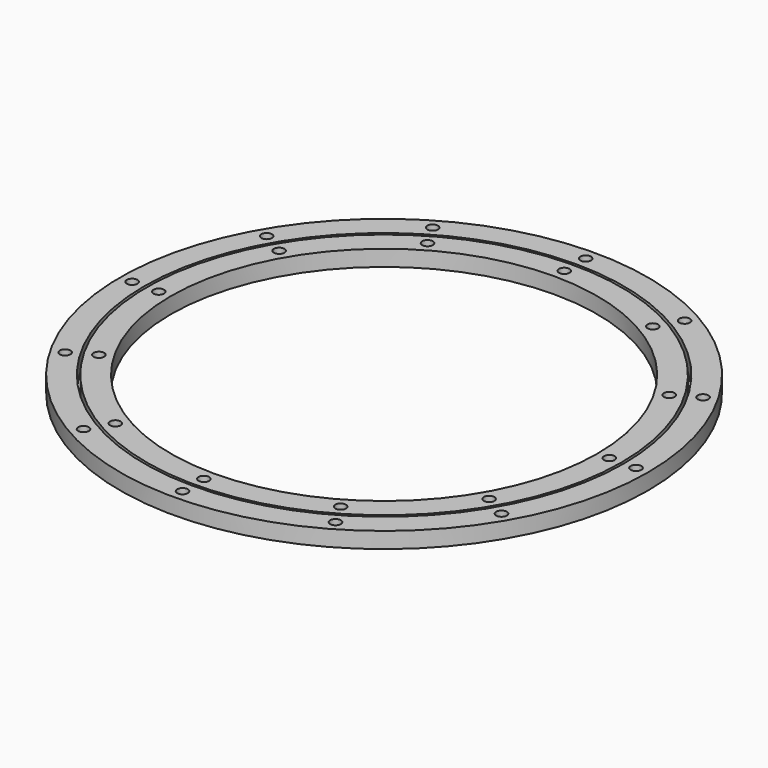
from build123d import *

# Parameters (mm, degrees)
F0_R     = 222.5
F0_R_2   = 5
F1_DEPTH = 15
F0_R_3   = 247.5


with BuildPart() as f1:
    # F0 (on Top) → F1 (new body)
    with BuildSketch(Plane.XY):
        Circle(F0_R)
        with Locations((-105.625, -182.9478665495)):
            Circle(F0_R_2, mode=Mode.SUBTRACT)
        with Locations((-182.9478665495, -105.625)):
            Circle(F0_R_2, mode=Mode.SUBTRACT)
        with Locations((0, -211.25)):
            Circle(F0_R_2, mode=Mode.SUBTRACT)
        with Locations((105.625, -182.9478665495)):
            Circle(F0_R_2, mode=Mode.SUBTRACT)
        with Locations((182.9478665495, -105.625)):
            Circle(F0_R_2, mode=Mode.SUBTRACT)
        with Locations((-211.25, 0)):
            Circle(F0_R_2, mode=Mode.SUBTRACT)
        with Locations((-182.9478665495, 105.625)):
            Circle(F0_R_2, mode=Mode.SUBTRACT)
        with Locations((-105.625, 182.9478665495)):
            Circle(F0_R_2, mode=Mode.SUBTRACT)
        with BuildLine():
            ThreePointArc((0, 200), (141.4213562373, 141.4213562373), (200, 0))
            ThreePointArc((200, 0), (-141.4213562373, -141.4213562373), (0, 200))
        make_face(mode=Mode.SUBTRACT)
        with Locations((211.25, 0)):
            Circle(F0_R_2, mode=Mode.SUBTRACT)
        with Locations((182.9478665495, 105.625)):
            Circle(F0_R_2, mode=Mode.SUBTRACT)
        with Locations((105.625, 182.9478665495)):
            Circle(F0_R_2, mode=Mode.SUBTRACT)
        with BuildLine():
            ThreePointArc((5, 211.25), (3.5355339059, 207.7144660941), (0, 206.25))
            ThreePointArc((0, 206.25), (-3.5355339059, 214.7855339059), (5, 211.25))
        make_face(mode=Mode.SUBTRACT)
    extrude(amount=F1_DEPTH)


with BuildPart() as f1b:
    # F0 (on Top) → F1, piece 2 (new body)
    with BuildSketch(Plane.XY):
        Circle(F0_R_3)
        with Locations((-118.125, -204.5985016441)):
            Circle(F0_R_2, mode=Mode.SUBTRACT)
        with Locations((-204.5985016441, -118.125)):
            Circle(F0_R_2, mode=Mode.SUBTRACT)
        with Locations((0, -236.25)):
            Circle(F0_R_2, mode=Mode.SUBTRACT)
        with Locations((118.125, -204.5985016441)):
            Circle(F0_R_2, mode=Mode.SUBTRACT)
        with Locations((204.5985016441, -118.125)):
            Circle(F0_R_2, mode=Mode.SUBTRACT)
        with Locations((-236.25, 0)):
            Circle(F0_R_2, mode=Mode.SUBTRACT)
        with Locations((-204.5985016441, 118.125)):
            Circle(F0_R_2, mode=Mode.SUBTRACT)
        with Locations((-118.125, 204.5985016441)):
            Circle(F0_R_2, mode=Mode.SUBTRACT)
        with BuildLine():
            ThreePointArc((0, 225), (159.099025767, 159.099025767), (225, 0))
            ThreePointArc((225, 0), (-159.099025767, -159.099025767), (0, 225))
        make_face(mode=Mode.SUBTRACT)
        with Locations((236.25, 0)):
            Circle(F0_R_2, mode=Mode.SUBTRACT)
        with Locations((204.5985016441, 118.125)):
            Circle(F0_R_2, mode=Mode.SUBTRACT)
        with BuildLine():
            ThreePointArc((5, 236.25), (3.5355339059, 232.7144660941), (0, 231.25))
            ThreePointArc((0, 231.25), (-3.5355339059, 239.7855339059), (5, 236.25))
        make_face(mode=Mode.SUBTRACT)
        with Locations((118.125, 204.5985016441)):
            Circle(F0_R_2, mode=Mode.SUBTRACT)
    extrude(amount=F1_DEPTH)


solid = Compound([f1.part, f1b.part])
